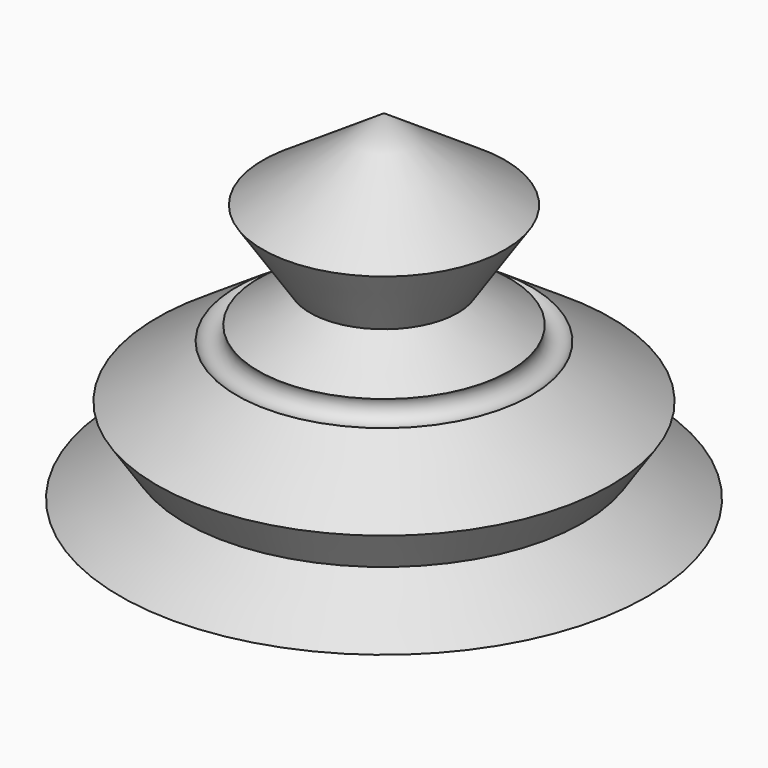
from build123d import *

# Parameters (mm, degrees)
F2_R = 2.5


with BuildPart() as f1:
    # F0 (on Front) → F1 (revolve)
    with BuildSketch(Plane.XZ):
        Polygon((0, 65.34344), (0, 0), (50.819985, 0), (38.281162, 8.357699), (43.692497, 16.476175), (14.215877, 36.123689), (23.327958, 49.79429), align=None)
    revolve(axis=Axis((0, 0, 32.67172), (0, 0, 1)))

    # F2 (on Right) → F3 (revolve, cut)
    with BuildSketch(Plane.YZ):
        with Locations((26.287429, 28.140074)):
            Circle(F2_R)
    revolve(axis=Axis((0, 0, 32.67172), (0, 0, 1)), mode=Mode.SUBTRACT)


solid = f1.part
